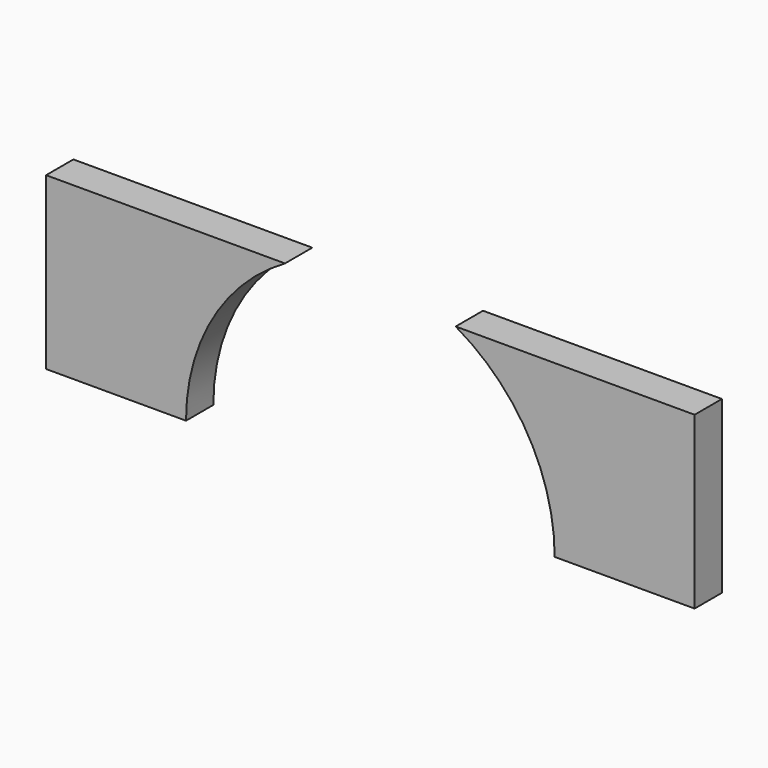
from build123d import *

# Parameters (mm, degrees)
F1_DEPTH = 1


with BuildPart() as f1:
    # F0 (on Front) → F1 (new body)
    with BuildSketch(Plane.XZ):
        with BuildLine():
            Line((-5.5, 0), (-9.5, 0))
            Line((-9.5, 0), (-9.5, -5))
            Line((-9.5, -5), (-5.400452, -5))
            ThreePointArc((-5.400452, -5), (-4.62285, -2.109817), (-2.5, 0))
            Line((-2.5, 0), (-5.5, 0))
        make_face()
        with BuildLine():
            Line((5.400452, -5), (9.5, -5))
            Line((9.5, -5), (9.5, 0))
            Line((9.5, 0), (5.5, 0))
            Line((5.5, 0), (2.5, 0))
            ThreePointArc((2.5, 0), (4.62285, -2.109817), (5.400452, -5))
        make_face()
    extrude(amount=-F1_DEPTH)


solid = f1.part
